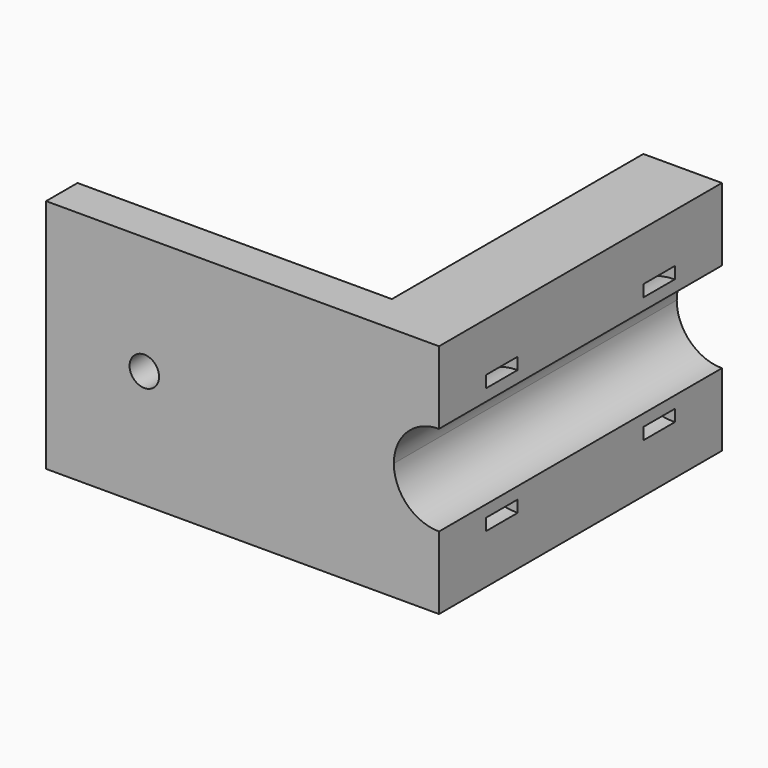
from build123d import *

# Parameters (mm, degrees)
F1_DEPTH = 60
F3_DEPTH = 90.001
F4_R     = 3.75
F5_DEPTH = 10.001
F6_W     = 10
F6_H     = 3


with BuildPart() as f1:
    # F0 (on Top) → F1 (new body)
    with BuildSketch(Plane.XY):
        Polygon((-100, 0), (0, 0), (0, 90), (-20, 90), (-20, 10), (-100, 10), align=None)
    extrude(amount=F1_DEPTH)

    # F2 (on face) → F3 (cut, through all)
    with BuildSketch(Plane(origin=(0, 90, 0), x_dir=(-1, 0, 0), z_dir=(0, 1, 0))):
        with BuildLine():
            ThreePointArc((0, 18.5), (8.131728, 21.868272), (11.5, 30))
            ThreePointArc((11.5, 30), (8.131728, 38.131728), (0, 41.5))
            Line((0, 41.5), (0, 18.5))
        make_face()
    extrude(amount=-F3_DEPTH, mode=Mode.SUBTRACT)

    # F4 (on face) → F5 (cut, through all)
    with BuildSketch(Plane(origin=(0, 10, 0), x_dir=(-1, 0, 0), z_dir=(0, 1, 0))):
        with Locations((75, 30)):
            Circle(F4_R)
    extrude(amount=-F5_DEPTH, mode=Mode.SUBTRACT)

    # F6 (on face) → F7 (revolve, cut)
    with BuildSketch(Plane.YZ):
        with Locations((70, 46)):
            Rectangle(F6_W, F6_H)
        with Locations((20, 46)):
            Rectangle(F6_W, F6_H)
    revolve(axis=Axis((0, 45, 30), (0, -1, 0)), mode=Mode.SUBTRACT)


solid = f1.part
